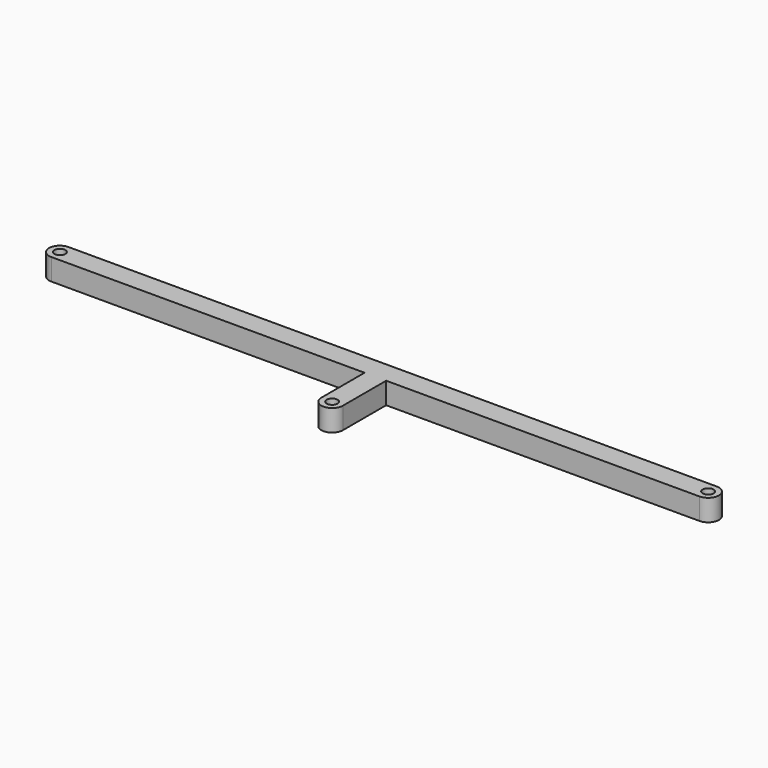
from build123d import *

# Parameters (mm, degrees)
F0_R     = 5
F1_DEPTH = 10


with BuildPart() as f1:
    # F0 (on Top) → F1 (new body, symmetric)
    with BuildSketch(Plane.XY):
        with BuildLine():
            ThreePointArc((0, 20), (-10, 10), (0, 0))
            Line((0, 0), (290, 0))
            Line((290, 0), (290, -50))
            ThreePointArc((290, -50), (300, -60), (310, -50))
            Line((310, -50), (310, 0))
            Line((310, 0), (600, 0))
            ThreePointArc((600, 0), (610, 10), (600, 20))
            Line((600, 20), (0, 20))
        make_face()
        with Locations((300, -50)):
            Circle(F0_R, mode=Mode.SUBTRACT)
        with Locations((0, 10)):
            Circle(F0_R, mode=Mode.SUBTRACT)
        with Locations((600, 10)):
            Circle(F0_R, mode=Mode.SUBTRACT)
    extrude(amount=F1_DEPTH, both=True)


solid = f1.part
